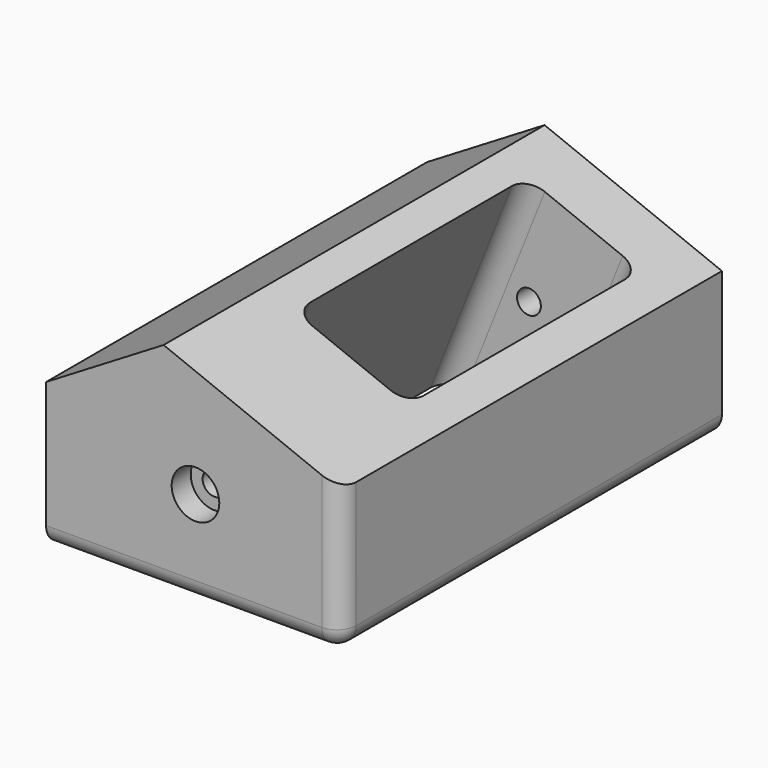
from build123d import *

# Parameters (mm, degrees)
F1_DEPTH       = 127
F3_D           = 6.35
F3_CBORE_D     = 12.7
F3_CBORE_DEPTH = 6.35
F4_R           = 5.08
F5_W           = 32.5189703144
F5_H           = 77.4685703218
F6_DEPTH       = 65.1611467814
F7_R           = 5.08


with BuildPart() as f1:
    # F0 (on Front) → F1 (new body)
    with BuildSketch(Plane.XZ):
        Polygon((-60.8552582562, 38.7677326798), (-60.8552582562, 0), (17.7800003439, 0), (17.7800003439, 38.7677326798), (-29.5111350715, 57.6475299895), align=None)
    extrude(amount=F1_DEPTH)

    # F3 (through all)
    with Locations(Plane.XZ.offset(127)):
        with Locations((-21.01104334, 25.3676697612)):
            CounterBoreHole(F3_D / 2, F3_CBORE_D / 2, F3_CBORE_DEPTH)

    # F4
    f4_edges = [f1.edges().sort_by_distance(p)[0] for p in [
        (-21.537629, -127, 0),
        (17.78, -127, 19.383866),
        (17.78, -63.5, 0),
    ]]
    fillet(f4_edges, radius=F4_R)

    # F5 (on face) → F6 (cut, through all)
    with BuildSketch(Plane(origin=(15.7936314356, 0, 39.5607405457), x_dir=(0.9287247193, 0, -0.3707700038), z_dir=(0.3707700038, 0, 0.9287247193))):
        with Locations((-23.8889742177, -54.570266977)):
            Rectangle(F5_W, F5_H)
    extrude(amount=-F6_DEPTH, mode=Mode.SUBTRACT)

    # F7
    f7_edges = [f1.edges().sort_by_distance(p)[0] for p in [
        (-32.361451, -15.835982, 27.223292),
        (0.24646, -15.835982, 21.194763),
        (0.24646, -93.304552, 21.194763),
        (-32.361451, -93.304552, 27.223292),
    ]]
    fillet(f7_edges, radius=F7_R)


solid = f1.part
